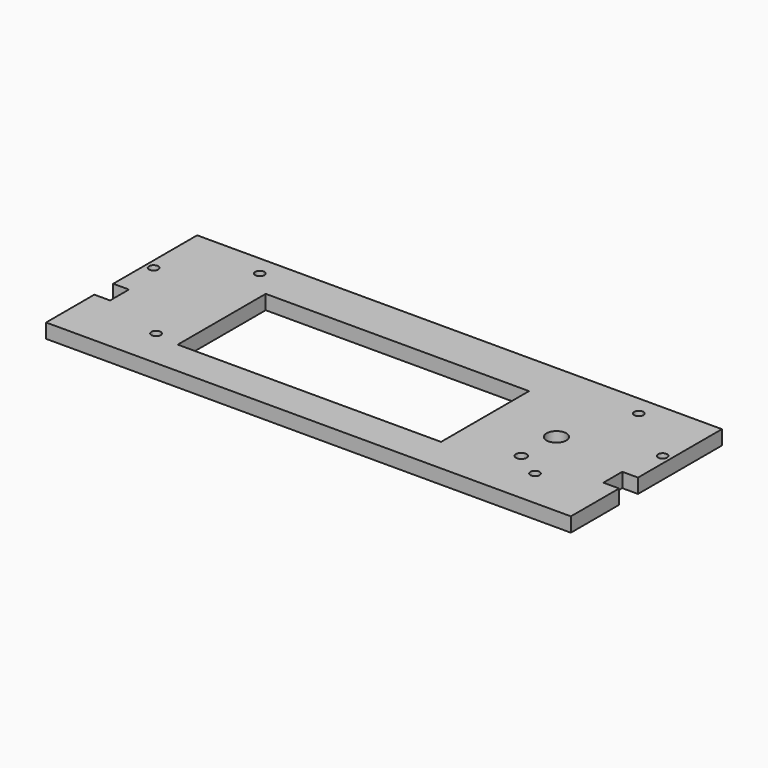
from build123d import *

# Parameters (mm, degrees)
F0_R     = 1.75
F0_W     = 100.394129
F0_H     = 41.936789
F0_R_2   = 2
F0_R_3   = 3.75
F1_DEPTH = 5.5


with BuildPart() as f1:
    # F0 (on Top) → F1 (new body)
    with BuildSketch(Plane.XY):
        Polygon((97.50326, 35.808698), (-102.59674, 35.808698), (-102.59674, -4.191302), (-96.59674, -4.191302), (-96.59674, -13.191302), (-102.59674, -13.191302), (-102.59674, -36.191302), (97.50326, -36.191302), (97.50326, -13.191302), (91.50326, -13.191302), (91.50326, -4.191302), (97.50326, -4.191302), align=None)
        with Locations((-72.59103, -21.273935)):
            Circle(F0_R, mode=Mode.SUBTRACT)
        with Locations((-12.867824, -1.88542)):
            Rectangle(F0_W, F0_H, mode=Mode.SUBTRACT)
        with Locations((71.91792, -21.28585)):
            Circle(F0_R, mode=Mode.SUBTRACT)
        with Locations((61.65615, -15.016859)):
            Circle(F0_R_2, mode=Mode.SUBTRACT)
        with Locations((-99.59674, 11.308698)):
            Circle(F0_R, mode=Mode.SUBTRACT)
        with Locations((-72.609478, 28.211436)):
            Circle(F0_R, mode=Mode.SUBTRACT)
        with Locations((62.149974, 1.143538)):
            Circle(F0_R_3, mode=Mode.SUBTRACT)
        with Locations((94.50326, 11.308698)):
            Circle(F0_R, mode=Mode.SUBTRACT)
        with Locations((71.900612, 28.217664)):
            Circle(F0_R, mode=Mode.SUBTRACT)
    extrude(amount=F1_DEPTH)


solid = f1.part
